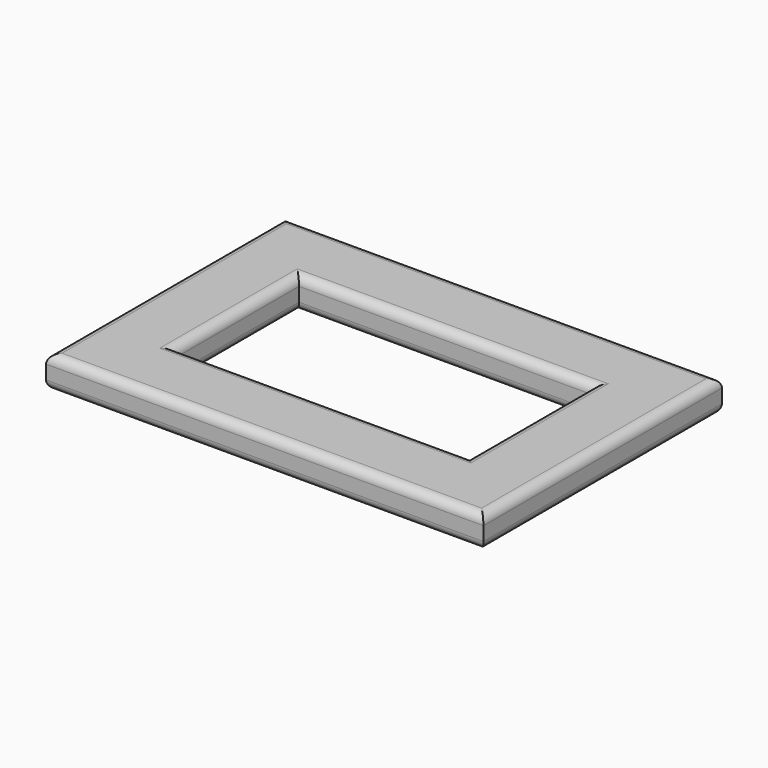
from build123d import *


with BuildPart() as f3:
    # F3: sweep along a path in F0
    with BuildLine(Plane.XY) as f3_path:
        Line((-49.0501374006, 27.5603476912), (-49.0501374006, -36.0591337085))
        Line((-49.0501374006, -36.0591337085), (54.1494078934, -36.0591337085))
        Line((54.1494078934, -36.0591337085), (54.1494078934, 27.5603476912))
        Line((54.1494078934, 27.5603476912), (-49.0501374006, 27.5603476912))
    # F2 (on line) → F3 (sweep)
    with BuildSketch(Plane.XZ.offset(36.0591337085)):
        with BuildLine():
            Line((-41.6731166029, 5.010060966), (-57.0862477338, 5.010060966))
            ThreePointArc((-57.0862477338, 5.010060966), (-58.882298958, 4.2661121902), (-59.6262477338, 2.470060966))
            Line((-59.6262477338, 2.470060966), (-59.6262477338, -1.477370753))
            ThreePointArc((-59.6262477338, -1.477370753), (-58.882298958, -3.2734219772), (-57.0862477338, -4.017370753))
            Line((-57.0862477338, -4.017370753), (-41.6731166029, -4.017370753))
            ThreePointArc((-41.6731166029, -4.017370753), (-39.8770653787, -3.2734219772), (-39.1331166029, -1.477370753))
            Line((-39.1331166029, -1.477370753), (-39.1331166029, 2.470060966))
            ThreePointArc((-39.1331166029, 2.470060966), (-39.8770653787, 4.2661121902), (-41.6731166029, 5.010060966))
        make_face()
    sweep(path=f3_path.line, transition=Transition.RIGHT)


solid = f3.part
